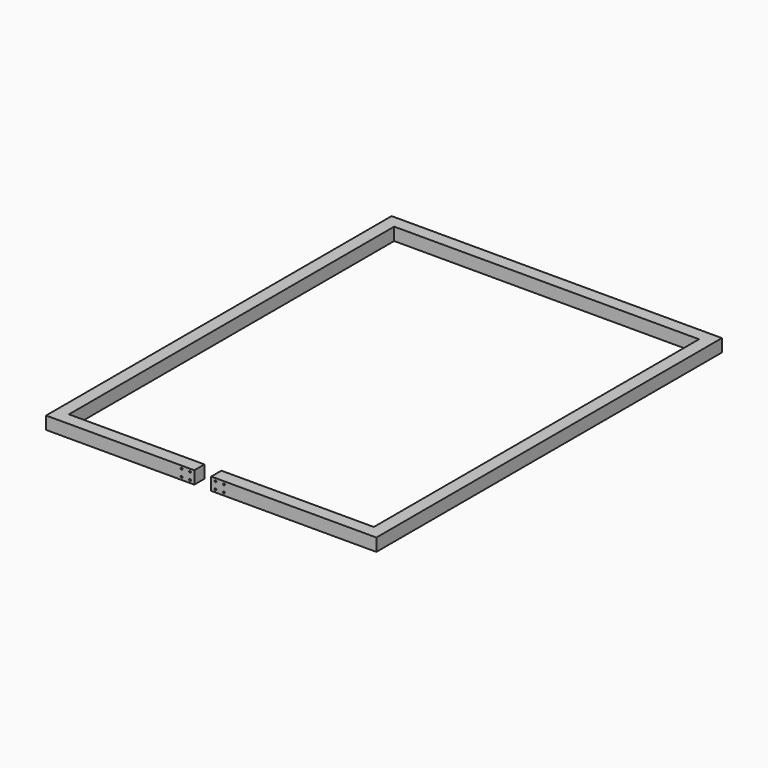
from build123d import *

# Parameters (mm, degrees)
F1_DEPTH = 9.525
F2_R     = 1.35255
F3_DEPTH = 19.051


with BuildPart() as f1:
    # F0 (on Top) → F1 (new body, symmetric)
    with BuildSketch(Plane.XY):
        Polygon((457.2, 609.6), (457.2, 0), (228.6, 0), (228.6, -19.05), (476.25, -19.05), (476.25, 628.65), (-19.05, 628.65), (-19.05, -19.05), (203.2, -19.05), (203.2, 0), (0, 0), (0, 609.6), align=None)
    extrude(amount=F1_DEPTH, both=True)

    # F2 (on face) → F3 (cut, through all)
    with BuildSketch(Plane(origin=(0, 0, 0), x_dir=(-1, 0, 0), z_dir=(0, 1, 0))):
        with Locations((-247.65, 5.3975)):
            Circle(F2_R)
        with Locations((-247.65, -5.3975)):
            Circle(F2_R)
        with Locations((-234.95, 5.3975)):
            Circle(F2_R)
        with Locations((-234.95, -5.3975)):
            Circle(F2_R)
        with Locations((-196.85, 5.3975)):
            Circle(F2_R)
        with Locations((-184.15, 5.3975)):
            Circle(F2_R)
        with Locations((-184.15, -5.3975)):
            Circle(F2_R)
        with Locations((-196.85, -5.3975)):
            Circle(F2_R)
    extrude(amount=-F3_DEPTH, mode=Mode.SUBTRACT)


solid = f1.part
